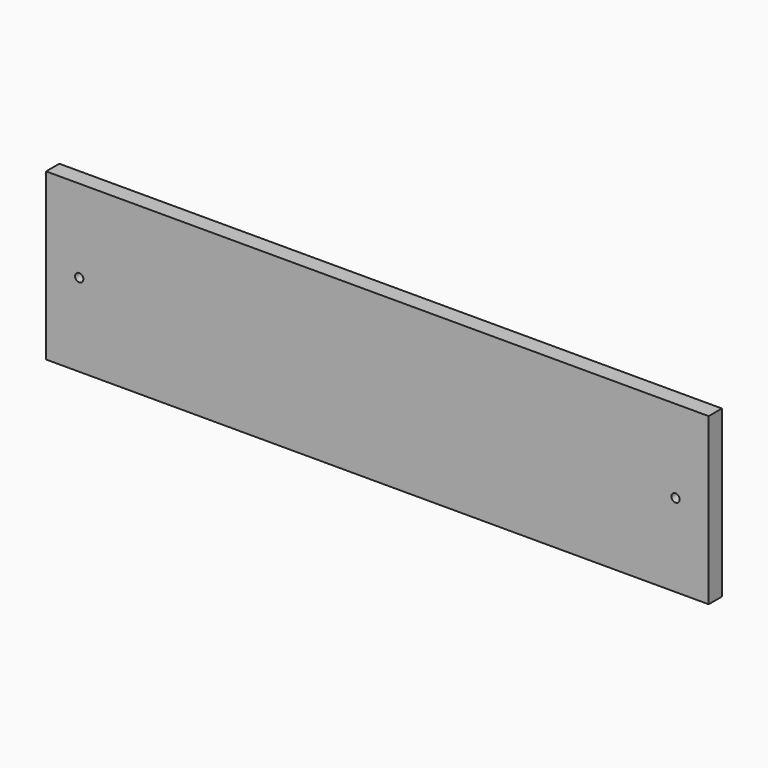
from build123d import *

# Parameters (mm, degrees)
F0_W     = 400
F0_H     = 100
F1_DEPTH = 10
F2_D     = 5


with BuildPart() as f1:
    # F0 (on Front) → F1 (new body)
    with BuildSketch(Plane.XZ):
        with Locations((200, -50)):
            Rectangle(F0_W, F0_H)
    extrude(amount=F1_DEPTH)

    # F2 (through all)
    with Locations(Plane(origin=(0, 0, 0), x_dir=(1, 0, 0), z_dir=(0, 1, 0))):
        with Locations((380, 50), (20, 50)):
            Hole(F2_D / 2)


solid = f1.part
